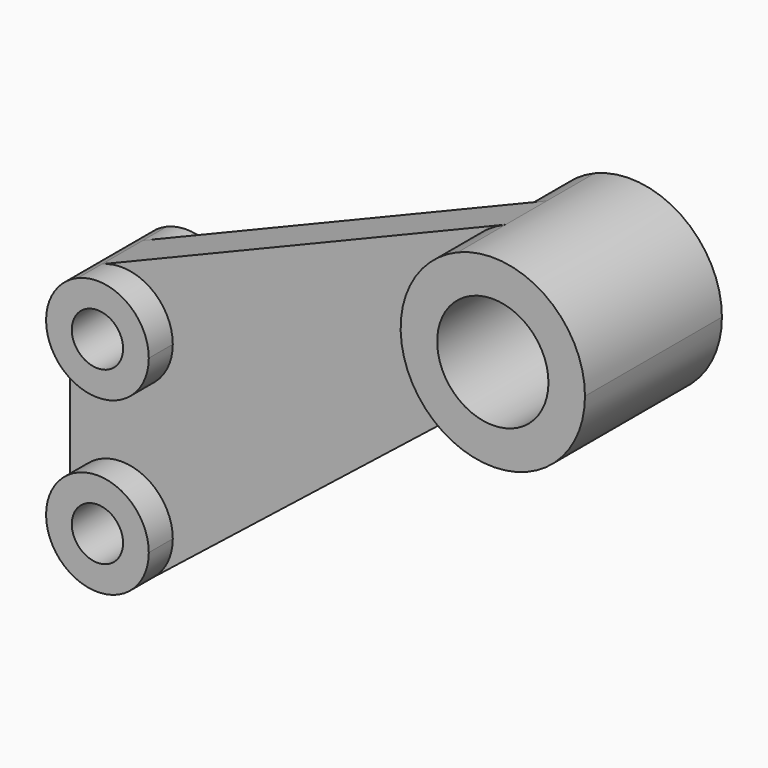
from build123d import *

# Parameters (mm, degrees)
F0_R     = 13.0048
F1_DEPTH = 20.0025
F2_DEPTH = 5.9944
F0_R_2   = 5.9944
F3_DEPTH = 13.0048


with BuildPart() as f1:
    # F0 (on Front) → F1 (new body, symmetric)
    with BuildSketch(Plane.XZ):
        with BuildLine():
            ThreePointArc((-7.110495, -20.331699), (12.465608, -17.56547), (21.5392, 0))
            ThreePointArc((21.5392, 0), (11.988357, 17.894593), (-8.194164, 19.919659))
            ThreePointArc((-8.194164, 19.919659), (-21.531398, -0.57968), (-7.110495, -20.331699))
        make_face()
        Circle(F0_R, mode=Mode.SUBTRACT)
    extrude(amount=F1_DEPTH, both=True)

    # F0 (on Front) → F2 (join, symmetric)
    with BuildSketch(Plane.XZ):
        with BuildLine():
            ThreePointArc((-7.110495, -20.331699), (-21.531398, -0.57968), (-8.194164, 19.919659))
            Line((-8.194164, 19.919659), (-102.558934, -18.898298))
            ThreePointArc((-102.558934, -18.898298), (-91.313367, -20.026651), (-85.9917, -29.9974))
            ThreePointArc((-85.9917, -29.9974), (-97.9932, -41.9989), (-109.9947, -29.9974))
            Line((-109.9947, -29.9974), (-109.9947, -70.0024))
            ThreePointArc((-109.9947, -70.0024), (-97.9932, -58.0009), (-85.9917, -70.0024))
            ThreePointArc((-85.9917, -70.0024), (-87.186467, -75.222604), (-90.532888, -79.40345))
            Line((-90.532888, -79.40345), (-18.520641, -22.257298))
            ThreePointArc((-18.520641, -22.257298), (-13.063266, -19.826762), (-7.110495, -20.331699))
        make_face()
    extrude(amount=F2_DEPTH, both=True)

    # F0 (on Front) → F3 (join, symmetric)
    with BuildSketch(Plane.XZ):
        with BuildLine():
            ThreePointArc((-109.9947, -70.0024), (-103.213404, -80.809133), (-90.532888, -79.40345))
            ThreePointArc((-90.532888, -79.40345), (-87.186467, -75.222604), (-85.9917, -70.0024))
            ThreePointArc((-85.9917, -70.0024), (-97.9932, -58.0009), (-109.9947, -70.0024))
        make_face()
        with Locations((-97.9932, -70.0024)):
            Circle(F0_R_2, mode=Mode.SUBTRACT)
        with BuildLine():
            ThreePointArc((-85.9917, -29.9974), (-91.313367, -20.026651), (-102.558934, -18.898298))
            ThreePointArc((-102.558934, -18.898298), (-107.963949, -23.317567), (-109.9947, -29.9974))
            ThreePointArc((-109.9947, -29.9974), (-97.9932, -41.9989), (-85.9917, -29.9974))
        make_face()
        with Locations((-97.9932, -29.9974)):
            Circle(F0_R_2, mode=Mode.SUBTRACT)
    extrude(amount=F3_DEPTH, both=True)


solid = f1.part
